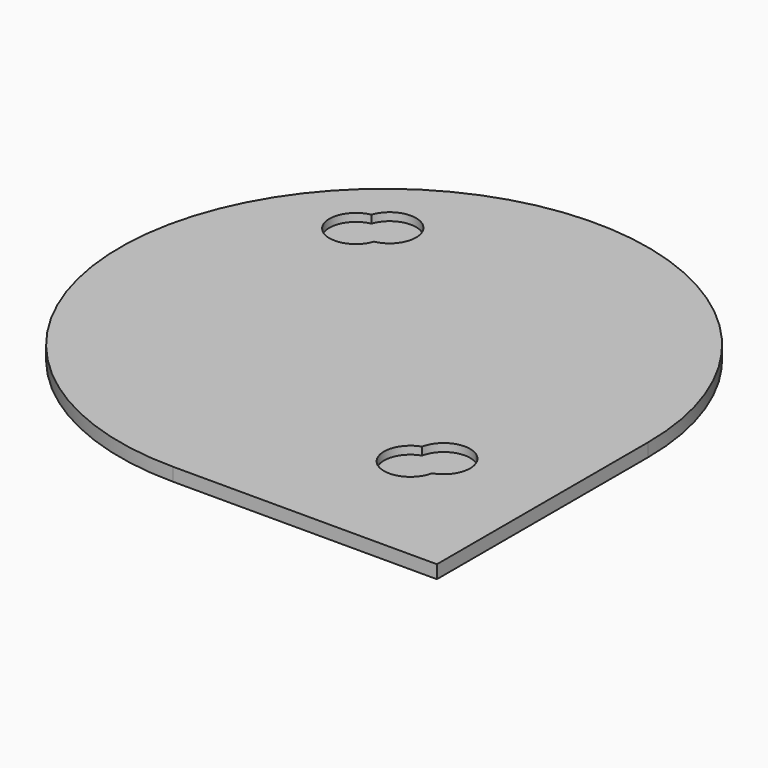
from build123d import *

# Parameters (mm, degrees)
F1_DEPTH = 25
F3_DEPTH = 15


with BuildPart() as f1:
    # F0 (on Top) → F1 (new body)
    with BuildSketch(Plane.XY):
        with BuildLine():
            Line((500, -500), (500, 0))
            ThreePointArc((500, 0), (-353.5533905933, 353.5533905933), (0, -500))
            Line((0, -500), (500, -500))
        make_face()
    extrude(amount=F1_DEPTH)

    # F2 (on face) → F3 (cut)
    with BuildSketch(Plane.XY.offset(25)):
        with BuildLine():
            ThreePointArc((-298.275415629, 227.2812716247), (-252.4058759305, 216.6571511717), (-218.0476979236, 248.8503524976))
            ThreePointArc((-218.0476979236, 248.8503524976), (-181.6197430258, 278.681388509), (-186.1257105524, 325.5491051614))
            ThreePointArc((-186.1257105524, 325.5491051614), (-247.1340821062, 282.0456442875), (-298.275415629, 227.2812716247))
        make_face()
        with BuildLine():
            ThreePointArc((-298.275415629, 227.2812716247), (-247.1340821062, 282.0456442875), (-186.1257105524, 325.5491051614))
            ThreePointArc((-186.1257105524, 325.5491051614), (-234.2235672882, 347.4770109931), (-275.1208694556, 313.9860039588))
            ThreePointArc((-275.1208694556, 313.9860039588), (-313.694453721, 277.8430174516), (-298.275415629, 227.2812716247))
        make_face()
        with BuildLine():
            ThreePointArc((247.5327318447, -219.5423493849), (215.1332053959, -253.7060332238), (225.4809015759, -299.6387208365))
            ThreePointArc((225.4809015759, -299.6387208365), (280.5522601623, -248.8281119926), (324.4223315889, -188.0828295364))
            ThreePointArc((324.4223315889, -188.0828295364), (277.5826002462, -183.2947009562), (247.5327318447, -219.5423493849))
        make_face()
        with BuildLine():
            ThreePointArc((324.4223315889, -188.0828295364), (280.5522601623, -248.8281119926), (225.4809015759, -299.6387208365))
            ThreePointArc((225.4809015759, -299.6387208365), (275.9488753473, -315.3619679614), (312.3235010153, -277.0067403613))
            ThreePointArc((312.3235010153, -277.0067403613), (346.0601889945, -236.311866471), (324.4223315889, -188.0828295364))
        make_face()
    extrude(amount=-F3_DEPTH, mode=Mode.SUBTRACT)


solid = f1.part
